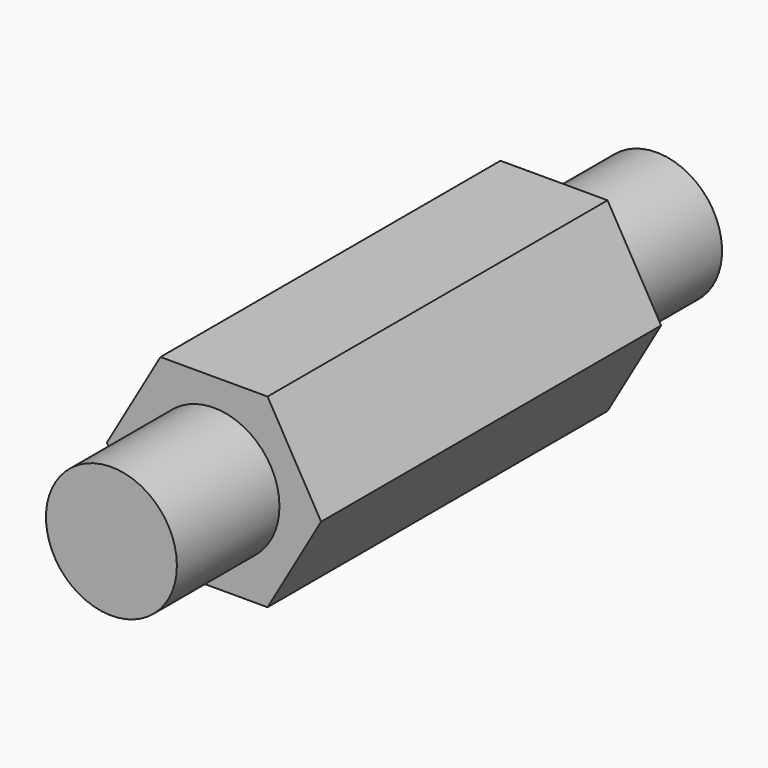
from build123d import *

# Parameters (mm, degrees)
F1_DEPTH = 62.45
F2_R     = 16.478049
F2_R_2   = 6
F3_DEPTH = 11.75
F4_R     = 15.413294
F4_R_2   = 6
F5_DEPTH = 11.75


with BuildPart() as f1:
    # F0 (on Front) → F1 (new body)
    with BuildSketch(Plane.XZ):
        Polygon((-4.907477, -8.5), (4.907477, -8.5), (9.814955, 0), (4.907477, 8.5), (-4.907477, 8.5), (-9.814955, 0), align=None)
    extrude(amount=-F1_DEPTH)

    # F2 (on face) → F3 (cut)
    with BuildSketch(Plane.XZ):
        Circle(F2_R)
        Circle(F2_R_2, mode=Mode.SUBTRACT)
    extrude(amount=-F3_DEPTH, mode=Mode.SUBTRACT)

    # F4 (on face) → F5 (cut)
    with BuildSketch(Plane(origin=(0, 62.45, 0), x_dir=(-1, 0, 0), z_dir=(0, 1, 0))):
        Circle(F4_R)
        Circle(F4_R_2, mode=Mode.SUBTRACT)
    extrude(amount=-F5_DEPTH, mode=Mode.SUBTRACT)


solid = f1.part
